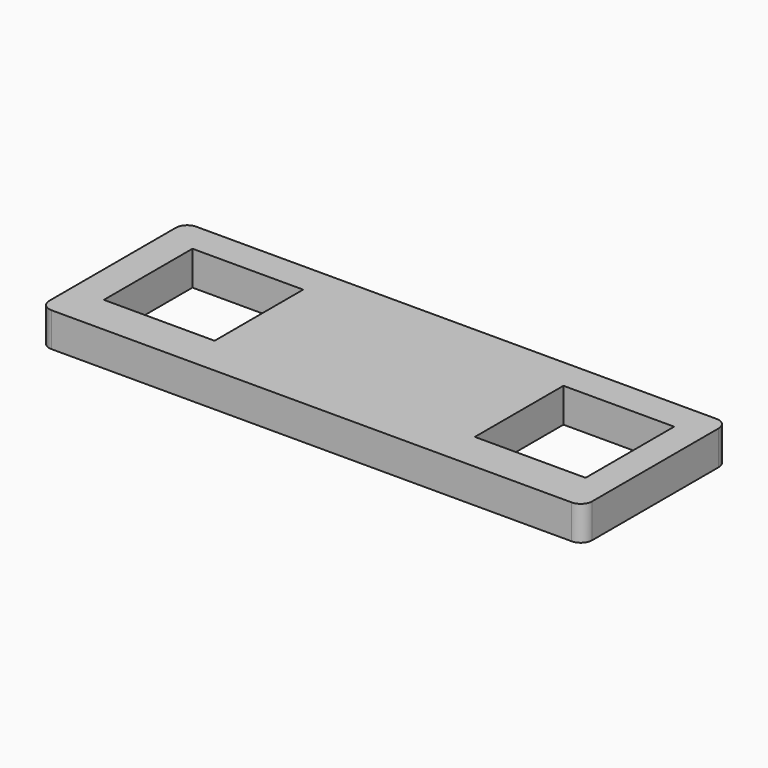
from build123d import *

# Parameters (mm, degrees)
SKETCH_W   = 95.126476
SKETCH_H   = 31.708825
SKETCH_W_2 = 19.4
SKETCH_H_2 = 19.4
PAD_DEPTH  = 6
FILLET_R   = 2


with BuildPart() as part:
    # Sketch → Pad (new body)
    with BuildSketch(Plane.XY):
        with Locations((-0.29722, -0.938767)):
            Rectangle(SKETCH_W, SKETCH_H)
        with Locations((-32.5, -0.210358)):
            Rectangle(SKETCH_W_2, SKETCH_H_2, mode=Mode.SUBTRACT)
        with Locations((32.5, -0.210358)):
            Rectangle(SKETCH_W_2, SKETCH_H_2, mode=Mode.SUBTRACT)
    extrude(amount=PAD_DEPTH)

    # Fillet
    fillet_edges = [part.edges().sort_by_distance(p)[0] for p in [
        (47.266018, 14.915645, 3),
        (47.266018, -16.79318, 3),
        (-47.860458, 14.915645, 3),
        (-47.860458, -16.79318, 3),
    ]]
    fillet(fillet_edges, radius=FILLET_R)


solid = part.part
